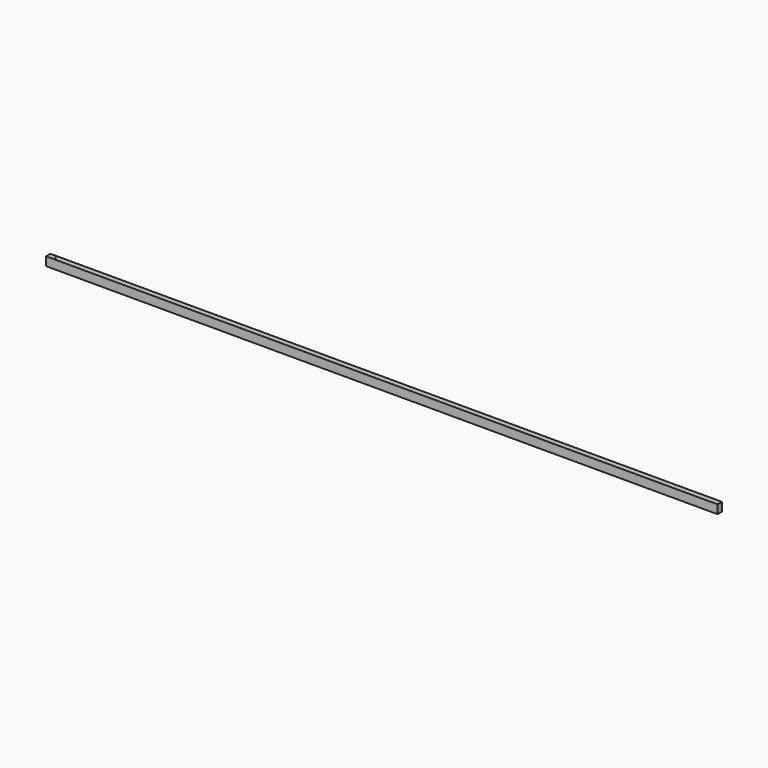
from build123d import *

# Parameters (mm, degrees)
F0_W     = 30
F0_H     = 48
F1_DEPTH = 3700
F2_R     = 1.5
F3_DEPTH = 50


with BuildPart() as f1:
    # F0 (on Right) → F1 (new body)
    with BuildSketch(Plane.YZ):
        Rectangle(F0_W, F0_H)
    extrude(amount=F1_DEPTH)

    # F2 (on face) → F3 (cut)
    with BuildSketch(Plane.XY.offset(24)):
        with Locations((40, 0)):
            Circle(F2_R)
        with Locations((1850, 0)):
            Circle(F2_R)
        with Locations((3660, 0)):
            Circle(F2_R)
    extrude(amount=-F3_DEPTH, mode=Mode.SUBTRACT)


solid = f1.part
